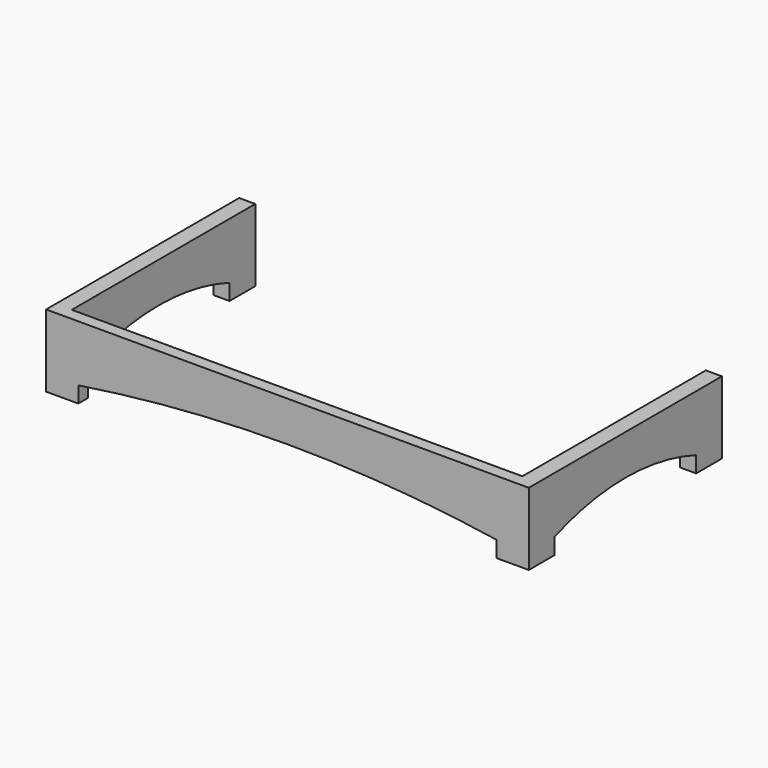
from build123d import *

# Parameters (mm, degrees)
F1_DEPTH = 19.05
F2_W     = 25.4
F2_H     = 114.3
F3_DEPTH = 361.95
F5_DEPTH = 762


with BuildPart() as f1:
    # F0 (on Front) → F1 (new body)
    with BuildSketch(Plane.XZ):
        with BuildLine():
            Line((381, 0), (-381, 0))
            Line((-381, 0), (-381, -114.3))
            Line((-381, -114.3), (-330.2, -114.3))
            Line((-330.2, -114.3), (-330.2, -88.9))
            ThreePointArc((-330.2, -88.9), (0, -63.5), (330.2, -88.9))
            Line((330.2, -88.9), (330.2, -114.3))
            Line((330.2, -114.3), (381, -114.3))
            Line((381, -114.3), (381, 0))
        make_face()
    extrude(amount=F1_DEPTH)

    # F2 (on face) → F3 (join)
    with BuildSketch(Plane(origin=(0, 0, 0), x_dir=(-1, 0, 0), z_dir=(0, 1, 0))):
        with Locations((-368.3, -57.15)):
            Rectangle(F2_W, F2_H)
        with Locations((368.3, -57.15)):
            Rectangle(F2_W, F2_H)
    extrude(amount=F3_DEPTH)

    # F4 (on face) → F5 (cut)
    with BuildSketch(Plane(origin=(-381, 0, 0), x_dir=(0, -1, 0), z_dir=(-1, 0, 0))):
        with BuildLine():
            Line((-311.15, -88.9), (-311.15, -114.3))
            Line((-311.15, -114.3), (-31.75, -114.3))
            Line((-31.75, -114.3), (-31.75, -88.9))
            ThreePointArc((-31.75, -88.9), (-171.45, -63.5), (-311.15, -88.9))
        make_face()
    extrude(amount=-F5_DEPTH, mode=Mode.SUBTRACT)


solid = f1.part
